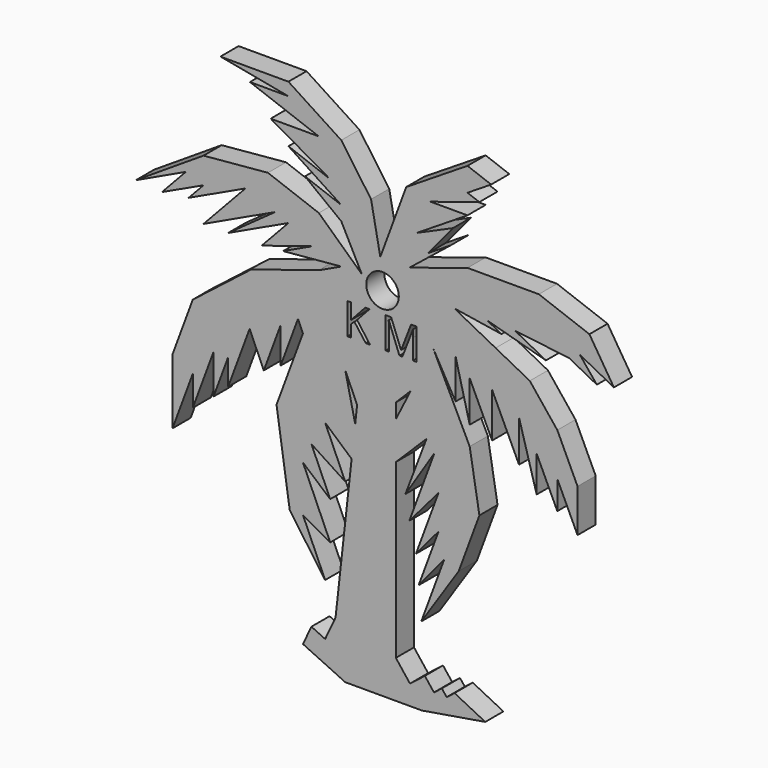
from build123d import *

# Parameters (mm, degrees)
F0_R     = 2.1855866809
F1_DEPTH = 3.048


with BuildPart() as f1:
    # F0 (on Front) → F1 (new body)
    with BuildSketch(Plane.XZ):
        Polygon((-5.9369264533, -6.6248892115), (-8.0986570849, -26.090829358), (-8.0986570849, -29.0724959499), (-6.7978715524, -28.209612886), (-3.9593786933, -29.0724959499), (0, -28.209612886), (0, -5.0586252473), (4.1217724793, -0.9782924317), (1.2832815992, -8.4293344989), (5.1818756491, -2.3217138641), (1.8154965946, -11.4109388133), (5.7322757336, -6.8417807078), (2.702526981, -15.0221036917), (5.7322757336, -11.4109388133), (3.0573392287, -18.6332685701), (6.4980270698, -14.4673358305), (3.4121514764, -22.7992013097), (8.4402870655, -15.2195461217), (11.2180029973, -7.7197118662), (9.9174999541, 0), (5.0088027492, 10.0208651274), (8.024699986, 4.6986923553), (8.024699986, 10.0208651274), (9.9174999541, 2.5698228274), (9.9174999541, 8.0731014378), (12.9247023214, 1.6827941872), (12.9247023214, 7.682890673), (16.5401790291, 0), (16.5401790291, 5.5857207626), (18.9088093805, -2.7523501776), (18.9088093805, 2.0773874768), (21.6825364495, -3.8167845923), (21.6825364495, 0), (24.3970053162, -5.7682483457), (24.3970053162, 0), (21.6849464923, 5.7631270029), (17.9872654723, 10.3869775868), (13.3964173922, 12.7771075341), (7.8472970054, 15.6661421061), (14.1803448269, 14.6780370192), (12.2824395075, 15.6661421061), (20.1555828001, 13.5067671671), (16.00795798, 15.6661421061), (23.2676268034, 14.7984231008), (26.9920900816, 12.8593584523), (24.7008390725, 15.6661421061), (29.2833410908, 13.2803573629), (25.9918076559, 18.5046344995), (19.2012600601, 21.019651712), (14.9435270578, 21.019651712), (9.621351026, 21.019651712), (1.8154965946, 18.5046344995), (7.3503633432, 22.9420375162), (4.2991787195, 21.019651712), (7.6698875055, 25.0856313896), (2.8167848962, 22.9420375162), (9.621351026, 27.229225263), (4.6539907344, 27.229225263), (11.2102990657, 29.3158966176), (9.621351026, 29.9043957943), (12.7992471054, 31.9066156085), (9.621351026, 33.0836139619), (1.3918339066, 27.8986419471), (-2.087427536, 18.5046344995), (-3.3292702865, 24.9229501933), (-7.3300888762, 30.5999331176), (-14.4263189286, 35.2124832571), (-23.553526029, 35.2124832571), (-14.4263189286, 33.4919277449), (-19.5913599088, 33.4919277449), (-10.345986113, 30.0677157938), (-16.8121065944, 30.0677157938), (-8.8380374946, 25.5143014271), (-14.4263189286, 27.5840349495), (-7.3300888762, 22.9420375162), (-12.1995583177, 24.7455444187), (-7.3300888762, 21.019651712), (-4.5711095445, 15.6661421061), (-10.345986113, 21.019651712), (-17.1750385652, 23.54892998), (-25.8271690029, 22.7623730898), (-34.9033385476, 16.912889007), (-28.2102105994, 20.0625951825), (-31.419938263, 16.6290679), (-25.8271690029, 19.2609584022), (-27.8235962899, 17.1253293783), (-20.200404818, 20.7127123541), (-25.8271690029, 14.6936196567), (-16.2208060825, 19.2142594606), (-22.524728283, 14.6936196567), (-14.4263189286, 18.5046344995), (-18.0152932364, 14.6654174403), (-11.2330154516, 16.7931901649), (-15.135942027, 14.9565194733), (-7.3300888762, 15.6661421061), (-10.345986113, 14.2468968406), (-19.3936806172, 11.4084053785), (-27.2707313308, 5.2649948951), (-29.9890381223, -2.0744346548), (-29.9890381223, -10.8314546173), (-27.2713444978, -3.4936806187), (-27.2713444978, -7.5277050313), (-24.4833060582, 0), (-24.4833060582, -5.2881608668), (-22.524728283, 0), (-22.524728283, -3.4936806187), (-19.6370323027, 4.3030998167), (-17.7298966168, 0), (-15.4757376271, 6.086230278), (-15.4757376271, 1.2962748297), (-13.1431804335, 7.5941802934), (-12.4748563394, 6.086230278), (-16.0229708999, -3.4936806187), (-14.248913154, -15.3798665851), (-9.4963132998, -22.1003994255), (-12.4748563394, -15.3798665851), (-8.8154319776, -17.4274813299), (-12.4748563394, -9.1706654057), (-8.8154319776, -12.3146366909), (-11.3371305027, -6.6248892115), (-6.7978715524, -9.5822165707), (-9.4963132998, -3.4936806187), align=None)
        Polygon((-5.4590504354, -2.3217138641), (-5.9369264533, -6.6248892115), (-8.0986570849, 0), align=None, mode=Mode.SUBTRACT)
        Polygon((-5.2012195811, 0), (-5.4590504354, -2.3217138641), (-6.7978715524, 3.6025505979), align=None, mode=Mode.SUBTRACT)
        Polygon((4.1217724793, 2.9246343765), (0, -5.0586252473), (0, 0), align=None, mode=Mode.SUBTRACT)
        Polygon((-5.2116346857, 10.044903243), (-3.4663525091, 7.6787914149), (-4.0386512292, 7.6787914149), (-5.5632550193, 9.7079337566), (-6.0018647583, 9.318770627), (-6.0018647583, 7.6787914149), (-6.4880897508, 7.6787914149), (-6.4880897508, 11.8625239778), (-6.0018647583, 11.8625239778), (-6.0018647583, 9.7875977385), (-4.1045800417, 11.8625239778), (-3.5295342878, 11.8625239778), align=None, mode=Mode.SUBTRACT)
        Polygon((1.9929027185, 3.9890692569), (0, 0), (0, 1.9945346285), align=None, mode=Mode.SUBTRACT)
        with BuildLine():
            Line((0.8748766614, 7.6787914149), (0.482966498, 7.6787914149))
            Line((0.482966498, 7.6787914149), (-0.9363343277, 11.3872871207))
            Line((-0.9363343277, 11.3872871207), (-0.9592262765, 11.3872871207))
            add(Edge.make_bspline(
                [(-0.9592262765, 11.3872871207), (-0.9189364466, 10.9468460257), (-0.9189364466, 10.3397515435)],
                knots=[0, 0, 0, 1, 1, 1], degree=2))
            Line((-0.9189364466, 10.3397515435), (-0.9189364466, 7.6787914149))
            Line((-0.9189364466, 7.6787914149), (-1.368534321, 7.6787914149))
            Line((-1.368534321, 7.6787914149), (-1.368534321, 11.8625239778))
            Line((-1.368534321, 11.8625239778), (-0.6359919594, 11.8625239778))
            Line((-0.6359919594, 11.8625239778), (0.6889940372, 8.4113337766))
            Line((0.6889940372, 8.4113337766), (0.711885986, 8.4113337766))
            Line((0.711885986, 8.4113337766), (2.047860118, 11.8625239778))
            Line((2.047860118, 11.8625239778), (2.7749084119, 11.8625239778))
            Line((2.7749084119, 11.8625239778), (2.7749084119, 7.6787914149))
            Line((2.7749084119, 7.6787914149), (2.2886834194, 7.6787914149))
            Line((2.2886834194, 7.6787914149), (2.2886834194, 10.3745473057))
            add(Edge.make_bspline(
                [(2.2886834194, 10.3745473057), (2.2886834194, 10.8378803495), (2.3289732493, 11.381793053)],
                knots=[0, 0, 0, 1, 1, 1], degree=2))
            Line((2.3289732493, 11.381793053), (2.3060813005, 11.381793053))
            Line((2.3060813005, 11.381793053), (0.8748766614, 7.6787914149))
        make_face(mode=Mode.SUBTRACT)
        with Locations((-1.788830501, 14.6408742294)):
            Circle(F0_R, mode=Mode.SUBTRACT)
        Polygon((3.4916638397, -33.2978479564), (12.0071414858, -31.8786017597), (7.881906937, -29.8103850529), (6.8234760188, -30.6367613375), (6.1782777805, -29.8103850529), (5.1198468623, -30.6367613375), (3.8985372832, -29.0724959499), (1.8950107042, -30.6367613375), (0, -28.209612886), (-3.9593786933, -29.0724959499), (-6.7978715524, -28.209612886), (-8.0986570849, -29.0724959499), (-8.0986570849, -26.090829358), (-9.4963132998, -29.0724959499), (-11.3371305027, -28.209612886), (-12.4748563394, -30.6367613375), (-6.7978715524, -33.2978479564), align=None)
        Polygon((0, 0), (0, -5.0586252473), (4.1217724793, 2.9246343765), align=None)
        Polygon((-8.0986570849, 0), (-5.9369264533, -6.6248892115), (-5.4590504354, -2.3217138641), align=None)
    extrude(amount=F1_DEPTH)


solid = f1.part
